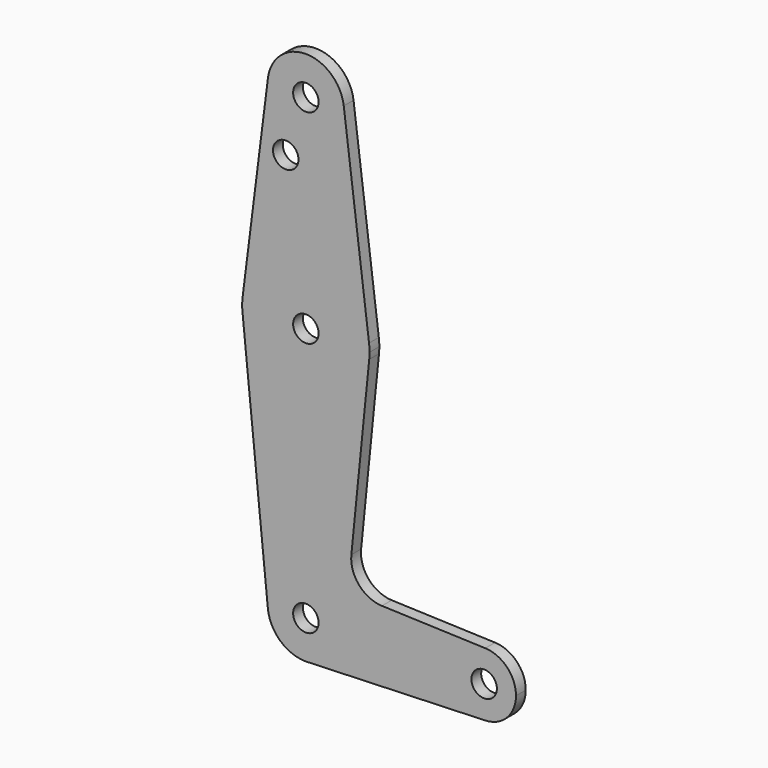
from build123d import *

# Parameters (mm, degrees)
F0_R     = 3.175
F1_DEPTH = 3.048


with BuildPart() as f1:
    # F0 (on Front) → F1 (new body)
    with BuildSketch(Plane.XZ):
        with BuildLine():
            ThreePointArc((9.450293, 99.167704), (9.506305, 98.573562), (9.525, 97.977079))
            ThreePointArc((9.525, 97.977079), (-0.596483, 88.470774), (-9.450293, 99.167704))
            Line((-9.450293, 99.167704), (-15.750488, 49.161454))
            ThreePointArc((-15.750488, 49.161454), (0, 63.052079), (15.750488, 49.161454))
            Line((15.750488, 49.161454), (9.450293, 99.167704))
        make_face()
        with Locations((-5.016533, 83.702279)):
            Circle(F0_R, mode=Mode.SUBTRACT)
        with BuildLine():
            ThreePointArc((-9.450293, 99.167704), (-0.596483, 88.470774), (9.525, 97.977079))
            ThreePointArc((9.525, 97.977079), (9.506305, 98.573562), (9.450293, 99.167704))
            ThreePointArc((9.450293, 99.167704), (0, 107.502079), (-9.450293, 99.167704))
        make_face()
        with Locations((0, 97.977079)):
            Circle(F0_R, mode=Mode.SUBTRACT)
        with BuildLine():
            ThreePointArc((15.875, 47.177079), (15.843841, 48.171218), (15.750488, 49.161454))
            ThreePointArc((15.750488, 49.161454), (0, 63.052079), (-15.750488, 49.161454))
            ThreePointArc((-15.750488, 49.161454), (-15.875, 47.177079), (-15.750488, 45.192704))
            ThreePointArc((-15.750488, 45.192704), (0.199705, 31.303335), (15.795426, 45.589579))
            ThreePointArc((15.795426, 45.589579), (15.855094, 46.382333), (15.875, 47.177079))
        make_face()
        with Locations((0, 47.177079)):
            Circle(F0_R, mode=Mode.SUBTRACT)
        with BuildLine():
            ThreePointArc((15.795426, 45.589579), (0.199705, 31.303335), (-15.750488, 45.192704))
            Line((-15.750488, 45.192704), (-9.477332, -17.274662))
            ThreePointArc((-9.477332, -17.274662), (-0.476467, -6.809845), (9.525, -16.322921))
            ThreePointArc((9.525, -16.322921), (6.970557, -22.81422), (0.677344, -25.823807))
            Line((0.677344, -25.823807), (44.732405, -24.255395))
            ThreePointArc((44.732405, -24.255395), (36.5125, -16.322921), (44.732405, -8.390446))
            Line((44.732405, -8.390446), (18.968328, -7.473215))
            ThreePointArc((18.968328, -7.473215), (13.261204, -4.755458), (11.340836, 1.266971))
            Line((11.340836, 1.266971), (15.795426, 45.589579))
        make_face()
        with BuildLine():
            ThreePointArc((9.525, -16.322921), (-0.476467, -6.809845), (-9.477332, -17.274662))
            ThreePointArc((-9.477332, -17.274662), (-6.389847, -23.386594), (0, -25.847921))
            Line((0, -25.847921), (0.677344, -25.823807))
            ThreePointArc((0.677344, -25.823807), (6.970557, -22.81422), (9.525, -16.322921))
        make_face()
        with Locations((0, -16.322921)):
            Circle(F0_R, mode=Mode.SUBTRACT)
        with BuildLine():
            ThreePointArc((52.3875, -16.322921), (50.161633, -10.81101), (44.732405, -8.390446))
            ThreePointArc((44.732405, -8.390446), (36.5125, -16.322921), (44.732405, -24.255395))
            ThreePointArc((44.732405, -24.255395), (50.161633, -21.834831), (52.3875, -16.322921))
        make_face()
        with Locations((44.45, -16.322921)):
            Circle(F0_R, mode=Mode.SUBTRACT)
    extrude(amount=F1_DEPTH)


solid = f1.part
